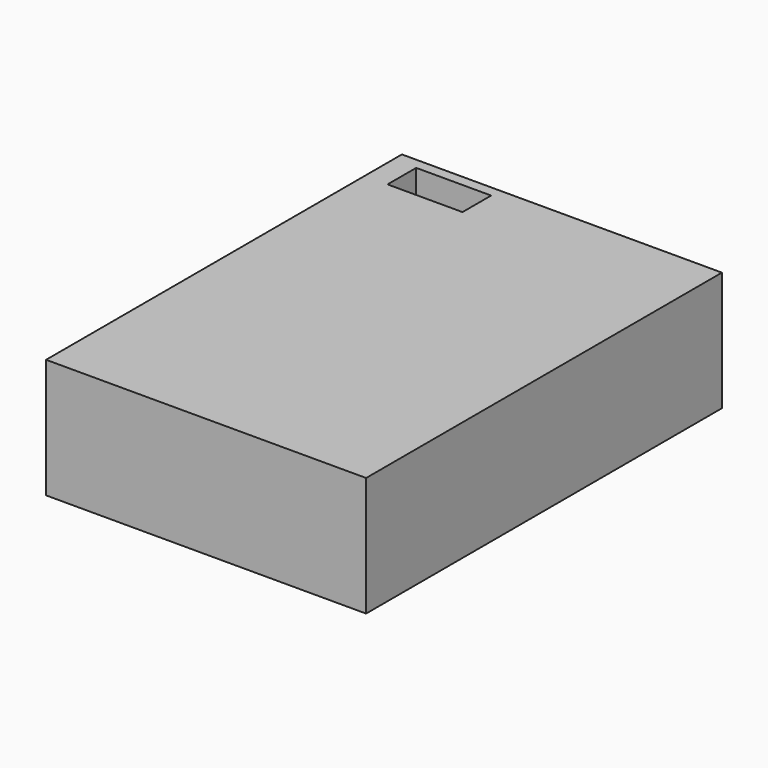
from build123d import *

# Parameters (mm, degrees)
F2_DEPTH  = 25
F1_W      = 15.7
F1_H      = 7.5
F3_DEPTH  = 73
F4_W      = 52.232783
F4_H      = 30.898266
F5_DEPTH  = 21.2
F7_DEPTH  = 3.3
F10_DEPTH = 3.3


with BuildPart() as f2:
    # F0 (on Top) → F2 (new body)
    with BuildSketch(Plane.XY):
        Polygon((20.616367, 50.231609), (-46.400759, 50.231609), (-46.400759, -3.551471), (20.616367, -3.860294), align=None)
        Polygon((20.616367, -3.860294), (-46.400759, -3.551471), (-46.400759, -42.905014), (20.616367, -42.905014), align=None)
    extrude(amount=F2_DEPTH)

    # F1 (on Top) → F3 (cut)
    with BuildSketch(Plane.XY):
        with Locations((-33.749492, 44.219783)):
            Rectangle(F1_W, F1_H)
    extrude(amount=F3_DEPTH, mode=Mode.SUBTRACT)

    # F4 (on Top) → F5 (cut)
    with BuildSketch(Plane.XY):
        with Locations((-12.035032, -22.46394)):
            Rectangle(F4_W, F4_H)
    extrude(amount=F5_DEPTH, mode=Mode.SUBTRACT)

    # F6 (on Right) → F7 (join)
    with BuildSketch(Plane.YZ):
        Polygon((-15.447762, 6.884329), (-6.716418, 0), (-6.716418, 6.884329), align=None)
    extrude(amount=-F7_DEPTH)

    # F9 (on offset) → F10 (join)
    with BuildSketch(Plane.YZ.offset(-21.9)):
        Polygon((-15.447762, 6.884329), (-6.716418, 0), (-6.716418, 6.884329), align=None)
    extrude(amount=F10_DEPTH)


solid = f2.part
